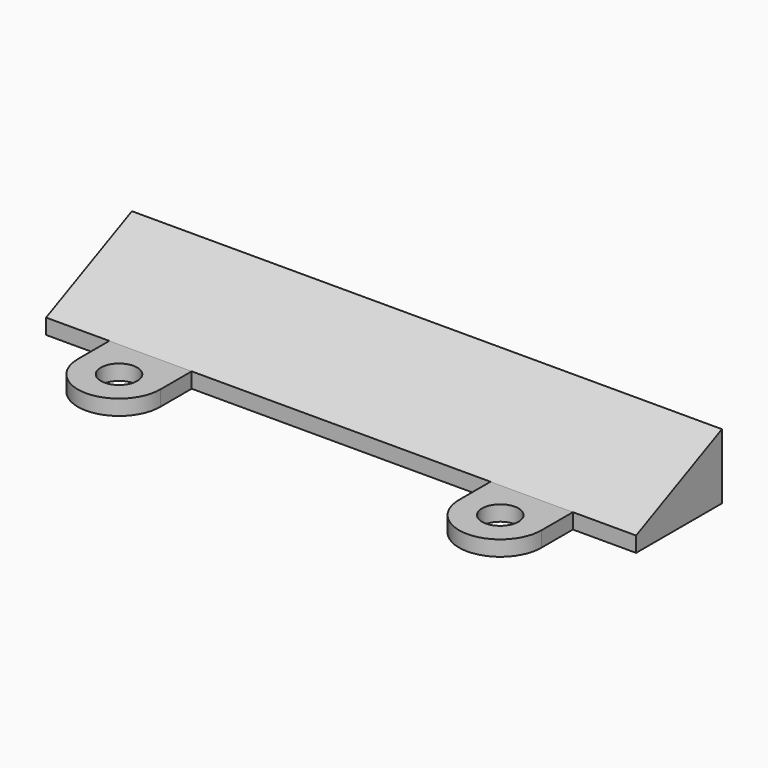
from build123d import *

# Parameters (mm, degrees)
F0_R     = 2.375
F1_DEPTH = 2
F3_DEPTH = 77


with BuildPart() as f1:
    # F0 (on Top) → F1 (new body)
    with BuildSketch(Plane.XY):
        with BuildLine():
            Line((38.5, -7), (38.5, 7))
            Line((38.5, 7), (-38.5, 7))
            Line((-38.5, 7), (-38.5, -7))
            Line((-38.5, -7), (-30.25, -7))
            Line((-30.25, -7), (-30.25, -12.125))
            ThreePointArc((-30.25, -12.125), (-24.875, -17.5), (-19.5, -12.125))
            Line((-19.5, -12.125), (-19.5, -7))
            Line((-19.5, -7), (19.5, -7))
            Line((19.5, -7), (19.5, -12.125))
            ThreePointArc((19.5, -12.125), (24.875, -17.5), (30.25, -12.125))
            Line((30.25, -12.125), (30.25, -7))
            Line((30.25, -7), (38.5, -7))
        make_face()
        with Locations((-24.875, -12.125)):
            Circle(F0_R, mode=Mode.SUBTRACT)
        with Locations((24.875, -12.125)):
            Circle(F0_R, mode=Mode.SUBTRACT)
    extrude(amount=F1_DEPTH)

    # F2 (on face) → F3 (join, through all)
    with BuildSketch(Plane.YZ.offset(38.5)):
        Polygon((7, 8.528307), (-7, 2), (7, 2), align=None)
    extrude(amount=-F3_DEPTH)


solid = f1.part
